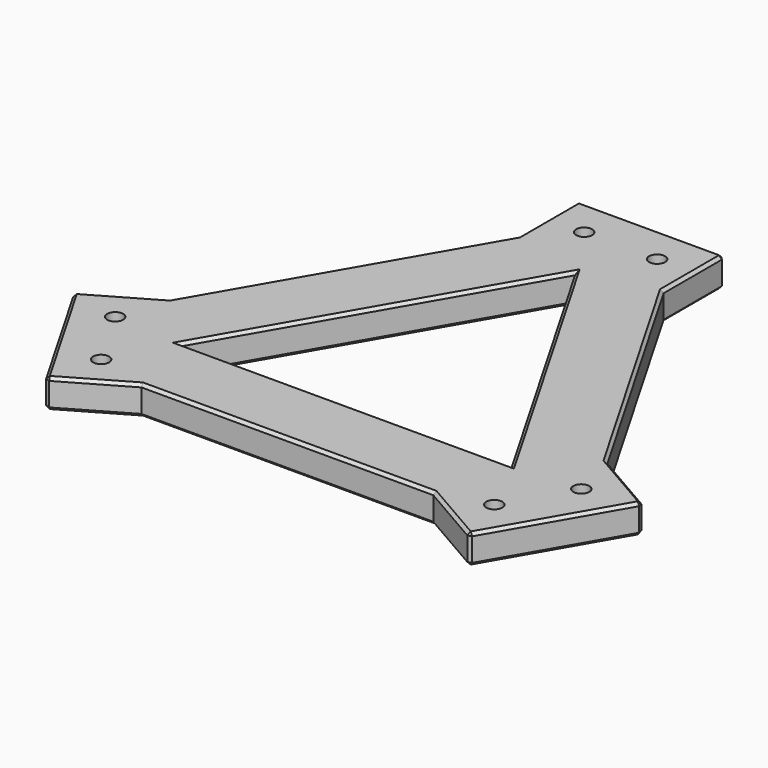
from build123d import *

# Parameters (mm, degrees)
F1_DEPTH       = 20
F2_SIZE        = 40
F3_W           = 100
F3_H           = 51.9615242271
F4_DEPTH       = 20
F5_SIZE        = 2
F7_D           = 11
F7_CBORE_D     = 17.25
F7_CBORE_DEPTH = 10


with BuildPart() as f1:
    # F0 (on Top) → F1 (new body)
    with BuildSketch(Plane.XY):
        Polygon((0, 230.9401076759), (-200, -115.4700538379), (200, -115.4700538379), align=None)
        Polygon((-113.3974596216, -65.4700538379), (0, 130.9401076759), (113.3974596216, -65.4700538379), align=None, mode=Mode.SUBTRACT)
    extrude(amount=-F1_DEPTH)

    # F2
    f2_edges = [f1.edges().sort_by_distance(p)[0] for p in [
        (-200, -115.470054, -10),
        (200, -115.470054, -10),
        (0, 230.940108, -10),
    ]]
    chamfer(f2_edges, length=F2_SIZE)

    # F3 (on face) → F4 (join, through all)
    with BuildSketch(Plane.XY):
        with Locations((0, 170.3183294109)):
            Rectangle(F3_W, F3_H)
        Polygon((-145, -141.4508159515), (-100, -115.4700538379), (-150, -28.8675134595), (-195, -54.848275573), align=None)
        Polygon((195, -54.848275573), (150, -28.8675134595), (100, -115.4700538379), (145, -141.4508159515), align=None)
    extrude(amount=-F4_DEPTH)

    # F5
    f5_edges = [f1.edges().sort_by_distance(p)[0] for p in [
        (-50, 170.318329, -20),
        (-100, 57.735027, -20),
        (-172.5, -41.857895, -20),
        (-170, -98.149546, -20),
        (-122.5, -128.460435, -20),
        (0, -115.470054, -20),
        (122.5, -128.460435, -20),
        (170, -98.149546, -20),
        (172.5, -41.857895, -20),
        (100, 57.735027, -20),
        (50, 170.318329, -20),
        (0, 196.299092, -20),
        (-56.69873, 32.735027, -20),
        (56.69873, 32.735027, -20),
        (0, -65.470054, -20),
        (-50, 170.318329, 0),
        (-100, 57.735027, 0),
        (-172.5, -41.857895, 0),
        (-170, -98.149546, 0),
        (-122.5, -128.460435, 0),
        (0, -115.470054, 0),
        (122.5, -128.460435, 0),
        (170, -98.149546, 0),
        (172.5, -41.857895, 0),
        (100, 57.735027, 0),
        (50, 170.318329, 0),
        (0, 196.299092, 0),
        (-56.69873, 32.735027, 0),
        (56.69873, 32.735027, 0),
        (0, -65.470054, 0),
        (-145, -141.450816, -10),
        (-195, -54.848276, -10),
        (50, 196.299092, -10),
        (-50, 196.299092, -10),
        (145, -141.450816, -10),
        (195, -54.848276, -10),
    ]]
    chamfer(f5_edges, length=F5_SIZE)

    # F7 (through all)
    with Locations(Plane(origin=(0, 0, -20), x_dir=(1, 0, 0), z_dir=(0, 0, -1))):
        with Locations((159.7243186434, 63.3493649054), (134.7243186434, 106.6506350946), (-25, -170), (25, -170), (-134.7243186434, 106.6506350946), (-159.7243186434, 63.3493649054)):
            CounterBoreHole(F7_D / 2, F7_CBORE_D / 2, F7_CBORE_DEPTH)


solid = f1.part
